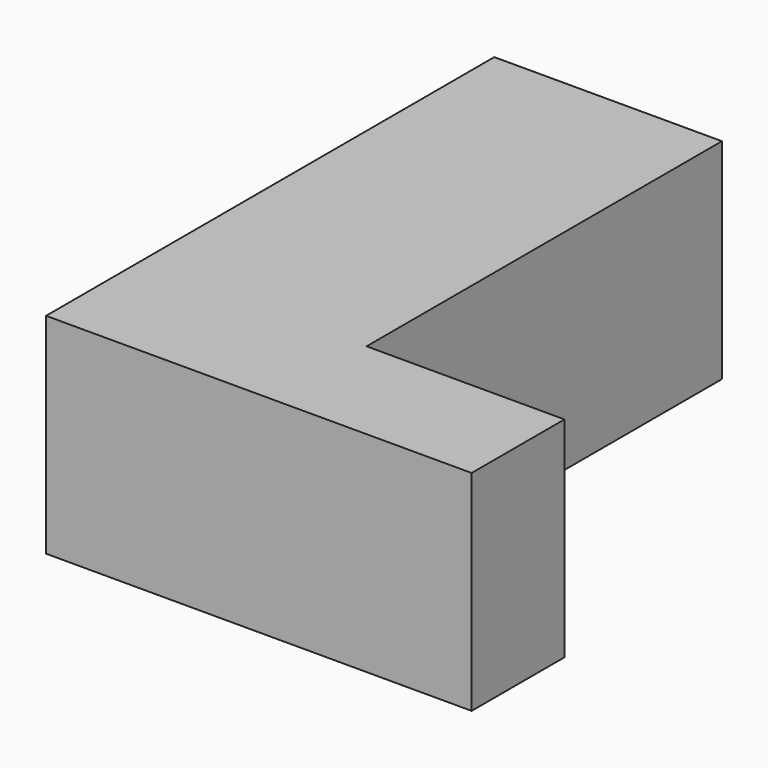
from build123d import *

# Parameters (mm, degrees)
F0_W     = 27.608007
F0_H     = 53.866655
F0_H_2   = 14.07215
F0_W_2   = 23.998529
F1_DEPTH = 25.4


with BuildPart() as f1:
    # F0 (on Top) → F1 (new body)
    with BuildSketch(Plane.XY):
        with Locations((13.804003, 41.005477)):
            Rectangle(F0_W, F0_H)
        with Locations((13.804003, 7.036075)):
            Rectangle(F0_W, F0_H_2)
        with Locations((39.607271, 7.036075)):
            Rectangle(F0_W_2, F0_H_2)
    extrude(amount=F1_DEPTH)


solid = f1.part
